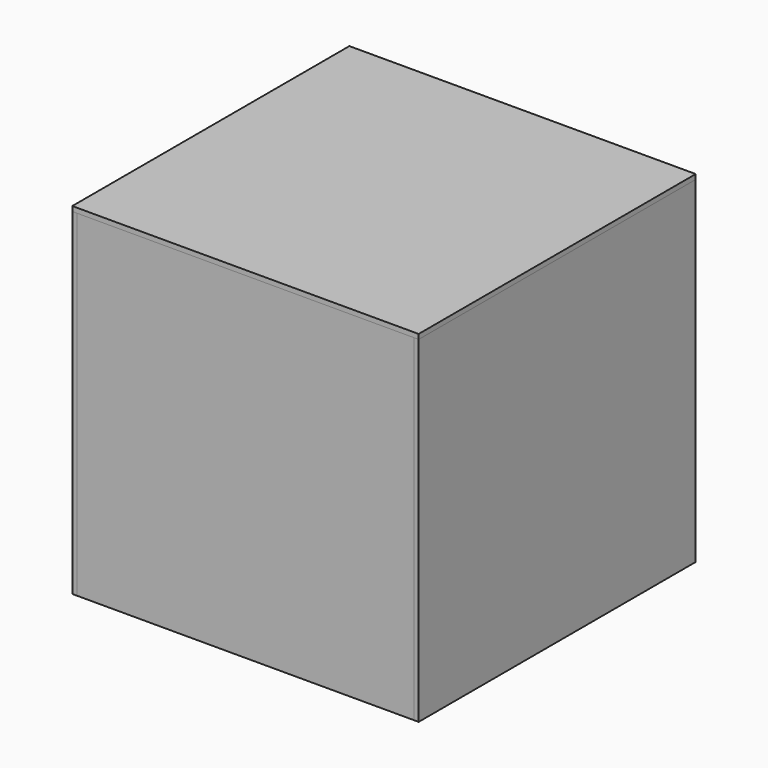
from build123d import *

# Parameters (mm, degrees)
F3_W        = 350
F3_H        = 350
F10_DEPTH   = 5
F5_W        = 350
F5_H        = 350
F11_DEPTH   = 5
F10_FACE_W  = 5
F10_FACE_H  = 350
F7_W        = 350
F7_H        = 350
F11_FACE_W  = 5
F11_FACE_H  = 350
F12_DEPTH   = 5
F2_W        = 350
F2_H        = 350
F11_FACE1_W = 5
F11_FACE1_H = 350
F10_FACE1_W = 5
F10_FACE1_H = 350
F14_DEPTH   = 5
F15_FACE_W  = 5
F15_FACE_H  = 360
F9_W        = 350
F9_H        = 350
F11_FACE2_W = 350
F11_FACE2_H = 5
F13_FACE_W  = 5
F13_FACE_H  = 360
F10_FACE2_W = 350
F10_FACE2_H = 5
F16_DEPTH   = 5


with BuildPart() as f10:
    # F3 (on Front) → F10 (new body)
    with BuildSketch(Plane.XZ):
        with Locations((175, 175)):
            Rectangle(F3_W, F3_H)
    extrude(amount=F10_DEPTH)


with BuildPart() as f11:
    # F5 (on 3pt) → F11 (new body)
    with BuildSketch(Plane(origin=(0, 350, 0), x_dir=(-1, 0, 0), z_dir=(0, 1, 0))):
        with Locations((-175, 175)):
            Rectangle(F5_W, F5_H)
    extrude(amount=F11_DEPTH)


with BuildPart() as f12:
    # F10_face (on face) + F7 (on 3pt) + F11_face (on face) → F12 (new body)
    with BuildSketch(Plane(origin=(350, -2.5, 175), x_dir=(0, 1, 0), z_dir=(1, 0, 0))):
        Rectangle(F10_FACE_W, F10_FACE_H)
    with BuildSketch(Plane.YZ.offset(350)):
        with Locations((175, 175)):
            Rectangle(F7_W, F7_H)
    with BuildSketch(Plane(origin=(350, 352.5, 175), x_dir=(0, 1, 0), z_dir=(1, 0, 0))):
        Rectangle(F11_FACE_W, F11_FACE_H)
    extrude(amount=F12_DEPTH)

    # F13: union 


with BuildPart() as f14:
    # F2 (on Right) + F11_face1 (on face) + F10_face1 (on face) → F14 (new body)
    with BuildSketch(Plane.YZ):
        with Locations((175, 175)):
            Rectangle(F2_W, F2_H)
    with BuildSketch(Plane(origin=(0, 352.5, 175), x_dir=(0, -1, 0), z_dir=(-1, 0, 0))):
        Rectangle(F11_FACE1_W, F11_FACE1_H)
    with BuildSketch(Plane(origin=(0, -2.5, 175), x_dir=(0, -1, 0), z_dir=(-1, 0, 0))):
        Rectangle(F10_FACE1_W, F10_FACE1_H)
    extrude(amount=-F14_DEPTH, dir=(1, 0, 0))

    # F15: union 


with BuildPart() as f16:
    # F15_face (on face) + F9 (on 3pt) + F11_face2 (on face) + F13_face (on face) + F10_face2 (on face) → F16 (new body)
    with BuildSketch(Plane(origin=(-2.5, 175, 350), x_dir=(1, 0, 0), z_dir=(0, 0, 1))):
        Rectangle(F15_FACE_W, F15_FACE_H)
    with BuildSketch(Plane(origin=(0, 0, 350), x_dir=(1, 0, 0), z_dir=(0, 0, -1))):
        with Locations((175, -175)):
            Rectangle(F9_W, F9_H)
    with BuildSketch(Plane(origin=(175, 352.5, 350), x_dir=(1, 0, 0), z_dir=(0, 0, 1))):
        Rectangle(F11_FACE2_W, F11_FACE2_H)
    with BuildSketch(Plane(origin=(352.5, 175, 350), x_dir=(1, 0, 0), z_dir=(0, 0, 1))):
        Rectangle(F13_FACE_W, F13_FACE_H)
    with BuildSketch(Plane(origin=(175, -2.5, 350), x_dir=(1, 0, 0), z_dir=(0, 0, 1))):
        Rectangle(F10_FACE2_W, F10_FACE2_H)
    extrude(amount=F16_DEPTH, dir=(0, 0, 1))


solid = Compound([f10.part, f11.part, f12.part, f14.part, f16.part])
